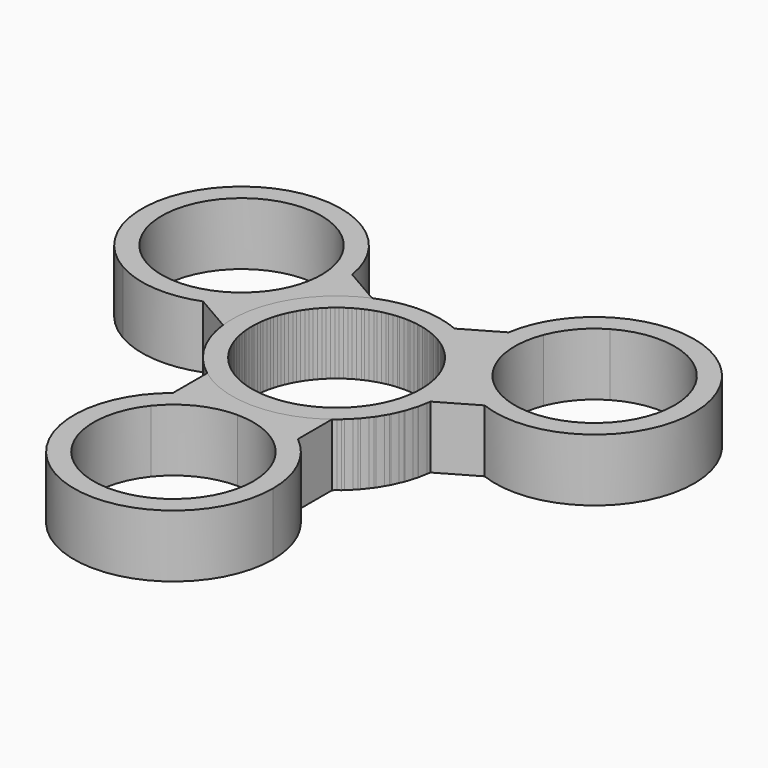
from build123d import *

# Parameters (mm, degrees)
F1_DEPTH = 7
F2_COUNT = 3


with BuildPart() as f1:
    # F0 (on Top) → F1 (new body)
    with BuildSketch(Plane.XY):
        with BuildLine():
            Line((-7, -17.2730384617), (-7, -14.1711463891))
            ThreePointArc((-7, -14.1711463891), (-4.8100155925, -32.909137637), (11.15, -22.85))
            ThreePointArc((11.15, -22.85), (10.059137637, -18.0399844075), (7, -14.1711463891))
            Line((7, -14.1711463891), (7, -17.2730384617))
            ThreePointArc((7, -17.2730384617), (8.4484466028, -19.895977319), (8.95, -22.85))
            ThreePointArc((8.95, -22.85), (-2.954022681, -31.2984466028), (-7, -17.2730384617))
        make_face()
        with BuildLine():
            ThreePointArc((7, -14.1711463891), (3.7116897961, -12.335920922), (6.7e-09, -11.7))
            Line((0, -11.7), (0, -13.9))
            ThreePointArc((0, -13.9), (3.8851444138, -14.7872366472), (7, -17.2730384617))
            Line((7, -17.2730384617), (7, -14.1711463891))
        make_face()
        with BuildLine():
            Line((0, -13.9), (0, -11.7))
            ThreePointArc((6.7e-09, -11.7), (-3.7116897898, -12.3359209198), (-7, -14.1711463891))
            Line((-7, -14.1711463891), (-7, -17.2730384617))
            ThreePointArc((-7, -17.2730384617), (-3.8851444138, -14.7872366472), (0, -13.9))
        make_face()
        with BuildLine():
            Line((7, -14.1711463891), (7, -9.3749666666))
            ThreePointArc((7, -9.3749666666), (3.6880136963, -11.1035379486), (6.7e-09, -11.7))
            ThreePointArc((6.7e-09, -11.7), (3.7116897961, -12.335920922), (7, -14.1711463891))
        make_face()
        with BuildLine():
            ThreePointArc((6.7e-09, -11.7), (-3.6880136899, -11.1035379507), (-7, -9.3749666666))
            Line((-7, -9.3749666666), (-7, -14.1711463891))
            ThreePointArc((-7, -14.1711463891), (-3.7116897898, -12.3359209198), (6.7e-09, -11.7))
        make_face()
        with BuildLine():
            ThreePointArc((0, -9.5), (-3.8232934266, -8.696690599), (-7, -6.4226162893))
            Line((-7, -6.4226162893), (-7, -9.3749666666))
            ThreePointArc((-7, -9.3749666666), (-3.6880136899, -11.1035379507), (6.7e-09, -11.7))
            Line((0, -11.7), (0, -9.5))
        make_face()
        with BuildLine():
            Line((7, -9.3749666666), (7, -6.4226162893))
            ThreePointArc((7, -6.4226162893), (3.8232934266, -8.696690599), (0, -9.5))
            Line((0, -9.5), (0, -11.7))
            ThreePointArc((6.7e-09, -11.7), (3.6880136963, -11.1035379486), (7, -9.3749666666))
        make_face()
        with BuildLine():
            ThreePointArc((-7, -6.4226162893), (-3.446012188, 8.8529656048), (9.5, 0))
            ThreePointArc((9.5, 0), (8.8529656048, -3.446012188), (7, -6.4226162893))
            Line((7, -6.4226162893), (7, -9.3749666666))
            ThreePointArc((7, -9.3749666666), (10.4592064709, -5.2435674879), (11.7, 0))
            ThreePointArc((11.7, 0), (-5.2435674879, 10.4592064709), (-7, -9.3749666666))
            Line((-7, -9.3749666666), (-7, -6.4226162893))
        make_face()
    extrude(amount=F1_DEPTH)


with BuildPart() as f2_1:
    # F2: instance of F1
    add(f1.part.rotate(Axis((0, 0, 7), (0, 0, -1)), 1 * 360 / F2_COUNT))


with BuildPart() as f2_2:
    # F2: instance of F1
    add(f1.part.rotate(Axis((0, 0, 7), (0, 0, -1)), 2 * 360 / F2_COUNT))


solid = Compound([f1.part, f2_1.part, f2_2.part])
